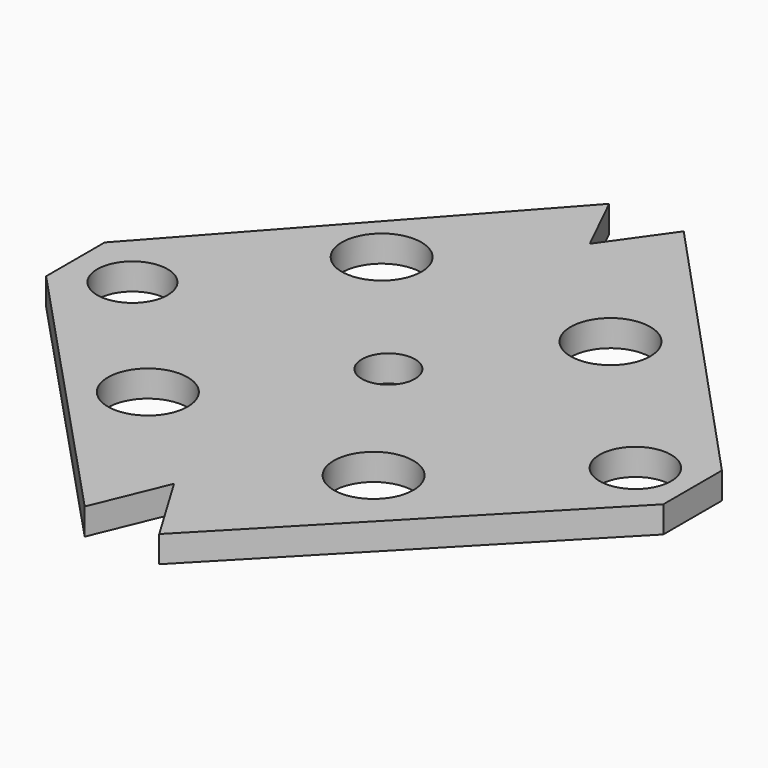
from build123d import *

# Parameters (mm, degrees)
F0_R     = 4.5
F0_R_2   = 3.9698540575
F1_DEPTH = 3
F0_W     = 8.4173739762
F0_H     = 21.1992750527
F0_R_3   = 3
F2_DEPTH = 3
F0_R_4   = 4.0384082605
F3_DEPTH = 3


with BuildPart() as f1:
    # F0 (on Top) → F1 (new body)
    with BuildSketch(Plane.XY):
        Polygon((0, 45.5646959671), (30.1232379104, 13.3580023242), (30.1232379104, 39.4406561247), align=None)
        with Locations((20.812695846, 33.9126698673)):
            Circle(F0_R, mode=Mode.SUBTRACT)
        Polygon((0, 45.5646959671), (30.1232379104, 39.4406561247), (30.1232379104, 60.6399311774), (0, 53.8307130337), align=None)
        with Locations((6.6491481848, 49.4420155883)):
            Circle(F0_R_2, mode=Mode.SUBTRACT)
        Polygon((0, 53.8307130337), (30.1232379104, 60.6399311774), (30.1232379104, 87.3854537311), align=None)
        with Locations((20.812695846, 66.9103562832)):
            Circle(F0_R, mode=Mode.SUBTRACT)
    extrude(amount=F1_DEPTH)

    # F0 (on Top) → F2 (join)
    with BuildSketch(Plane.XY):
        Polygon((30.1232379104, 87.3854537311), (30.1232379104, 60.6399311774), (38.5406118866, 60.6399311774), (38.5406118866, 87.3854537311), (33.5578359663, 80.3538560867), align=None)
        with Locations((34.3319248985, 50.0402936511)):
            Rectangle(F0_W, F0_H)
        with Locations((34.6380185767, 50.585233695)):
            Circle(F0_R_3, mode=Mode.SUBTRACT)
        Polygon((30.1232379104, 39.4406561247), (30.1232379104, 13.3580023242), (33.5578359663, 21.6755278666), (38.5406118866, 13.3580023242), (38.5406118866, 39.4406561247), align=None)
    extrude(amount=F2_DEPTH)

    # F0 (on Top) → F3 (join)
    with BuildSketch(Plane.XY):
        Polygon((38.5406118866, 39.4406561247), (38.5406118866, 13.3580023242), (69.6981623769, 45.5646959671), align=None)
        with Locations((46.3029742241, 33.9126698673)):
            Circle(F0_R, mode=Mode.SUBTRACT)
        Polygon((38.5406118866, 87.3854537311), (38.5406118866, 60.6399311774), (69.6981623769, 53.8307130337), align=None)
        with Locations((46.6521531343, 66.9103562832)):
            Circle(F0_R, mode=Mode.SUBTRACT)
        Polygon((38.5406118866, 60.6399311774), (38.5406118866, 39.4406561247), (69.6981623769, 45.5646959671), (69.6981623769, 53.8307130337), align=None)
        with Locations((63.4365081787, 49.4420155883)):
            Circle(F0_R_4, mode=Mode.SUBTRACT)
    extrude(amount=F3_DEPTH)


solid = f1.part
